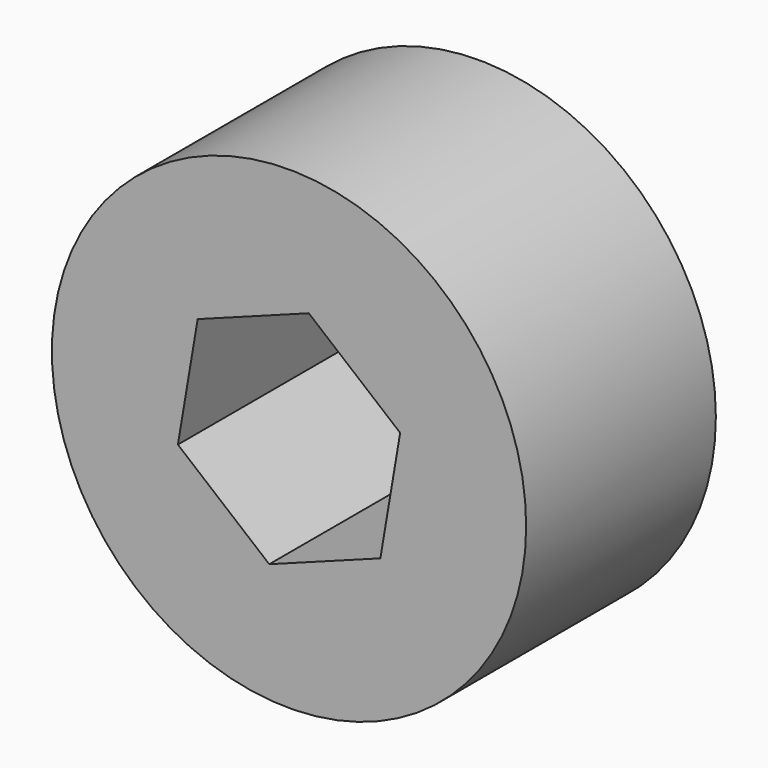
from build123d import *

# Parameters (mm, degrees)
F0_R     = 3.175
F1_DEPTH = 3.175


with BuildPart() as f1:
    # F0 (on Front) → F1 (new body)
    with BuildSketch(Plane.XZ):
        with Locations((-67.911115, 47.793188)):
            Circle(F0_R)
        Polygon((-66.423105, 48.346347), (-66.68806, 46.781114), (-68.17607, 46.227955), (-69.399124, 47.24003), (-69.134169, 48.805263), (-67.646159, 49.358422), align=None, mode=Mode.SUBTRACT)
    extrude(amount=F1_DEPTH)


solid = f1.part
